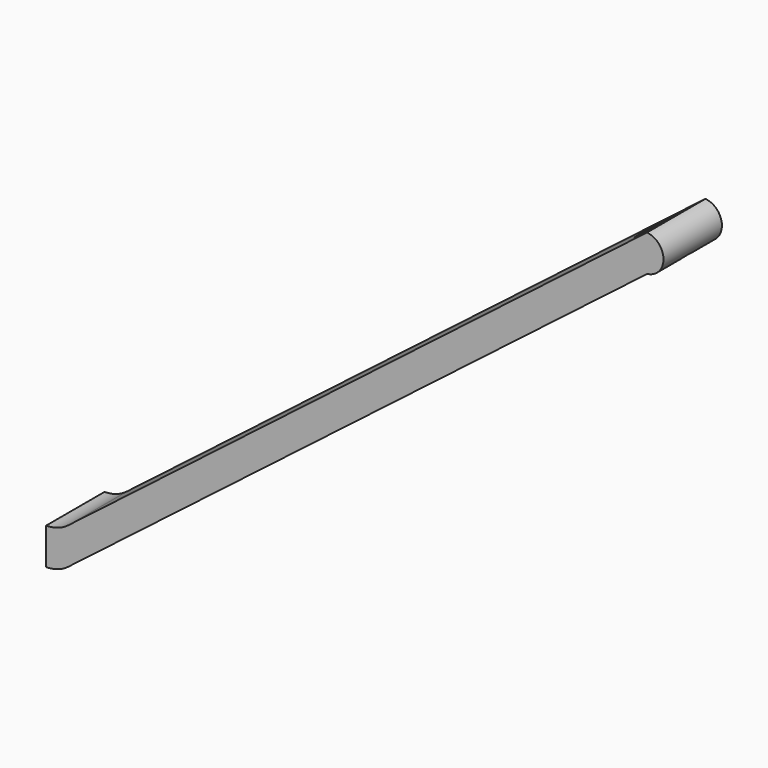
from build123d import *

# Parameters (mm, degrees)
F1_DEPTH = 40
F3_D     = 10
F5_D     = 20


with BuildPart() as f1:
    # F0 (on Front) → F1 (new body)
    with BuildSketch(Plane.XZ):
        with BuildLine():
            ThreePointArc((-138.652626, -5.954697), (-144.411955, -9.044339), (-150.859851, -10.112232))
            Line((-150.859851, -10.112232), (-150.859851, -30.112232))
            ThreePointArc((-150.859851, -30.112232), (-147.401977, -29.811042), (-144.048252, -28.916544))
            ThreePointArc((-144.048252, -28.916544), (-141.235816, -27.64443), (-138.652626, -25.954697))
            Line((-138.652626, -25.954697), (178.3398, 218.300084))
            ThreePointArc((178.3398, 218.300084), (187.221678, 228.309372), (178.19666, 238.189789))
            Line((178.19666, 238.189789), (-138.652626, -5.954697))
        make_face()
    extrude(amount=F1_DEPTH)

    # F3 (through all)
    with Locations(Plane(origin=(-150.859851, 0, 0), x_dir=(0, -1, 0), z_dir=(-1, 0, 0))):
        with Locations((20, -20.112232)):
            Hole(F3_D / 2)

    # F5 (through all)
    with Locations(Plane(origin=(-48.774778, 0, 63.299621), x_dir=(0.792123, 0, 0.610361), z_dir=(-0.610361, 0, 0.792123))):
        with Locations((271.53552, -20)):
            Hole(F5_D / 2)


solid = f1.part
